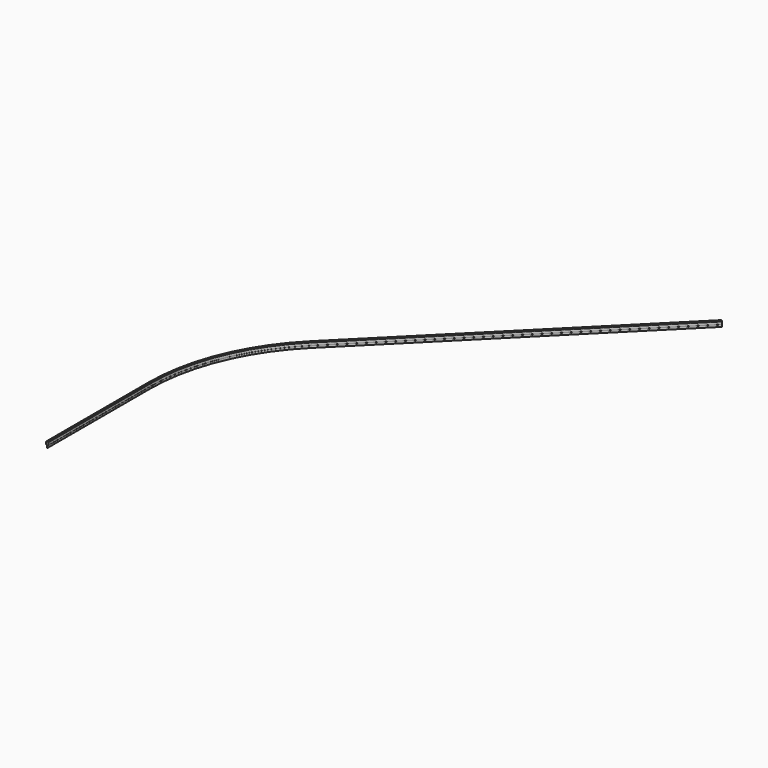
from build123d import *

# Parameters (mm, degrees)
F1_W = 5
F1_H = 30


with BuildPart() as f2:
    # F2: sweep along a path in F0
    with BuildLine(Plane.XY) as f2_path:
        Line((0, 0), (0, 850))
        ThreePointArc((0, 850), (95.2647650621, 1328.9283156049), (366.555863345, 1734.944136655))
        Line((366.555863345, 1734.944136655), (1886.8354428961, 3255.223716206))
    # F1 (on Front) → F2 (sweep)
    with BuildSketch(Plane.XZ):
        with Locations((-2.5, 0)):
            Rectangle(F1_W, F1_H)
    sweep(path=f2_path.line)


with BuildPart() as f4:
    # F4: sweep along a path in F4_path
    with BuildLine(Plane(origin=(0, 0, 15), x_dir=(0, 1, 0), z_dir=(0, 0, 1))) as f4_path:
        Line((0, 0), (850, 0))
        ThreePointArc((850, 0), (1328.9283156049, -95.2647650621), (1734.944136655, -366.555863345))
        Line((1734.944136655, -366.555863345), (3255.2237162059, -1886.8354428962))
    # F3 (on face) → F4 (sweep)
    with BuildSketch(Plane.XZ):
        with BuildLine():
            Line((-10.35, 18.6), (-10.35, 2.8))
            ThreePointArc((-10.35, 2.8), (-9.7642135624, 1.3857864376), (-8.35, 0.8))
            Line((-8.35, 0.8), (-5.05, 0.8))
            Line((-5.05, 0.8), (-5.05, 15))
            Line((-5.05, 15), (0.05, 15))
            Line((0.05, 15), (0.05, 0.8))
            Line((0.05, 0.8), (3.35, 0.8))
            ThreePointArc((3.35, 0.8), (4.7642135624, 1.3857864376), (5.35, 2.8))
            Line((5.35, 2.8), (5.35, 18.6))
            ThreePointArc((5.35, 18.6), (4.7642135624, 20.0142135624), (3.35, 20.6))
            Line((3.35, 20.6), (-8.35, 20.6))
            ThreePointArc((-8.35, 20.6), (-9.7642135624, 20.0142135624), (-10.35, 18.6))
        make_face()
    sweep(path=f4_path.line)


solid = Compound([f2.part, f4.part])
